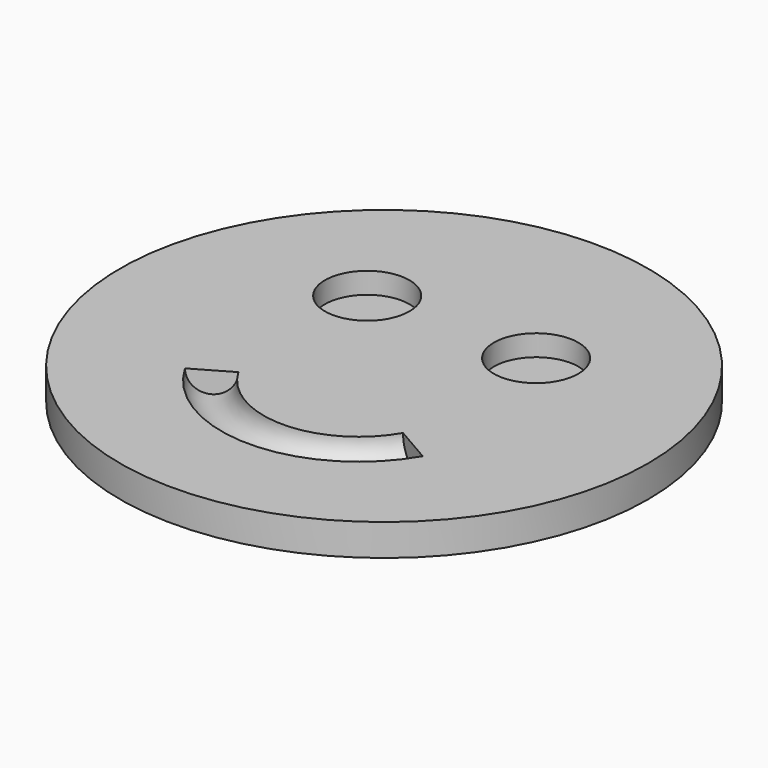
from build123d import *

# Parameters (mm, degrees)
CYLINDER001_R         = 4
CYLINDER001_DEPTH     = 2
CYLINDER002_R         = 4
CYLINDER002_DEPTH     = 2
TORUS_R               = 2
TORUS_ANGLE           = 120
TORUS_PLACEMENT_ANGLE = 210
CYLINDER_R            = 25
CYLINDER_DEPTH        = 3


with BuildPart() as cylinder001:
    # Cylinder001 → Cylinder001 (new body)
    with BuildSketch(Plane(origin=(8, 0, 1), x_dir=(1, 0, 0), z_dir=(0, 0, 1))):
        Circle(CYLINDER001_R)
    extrude(amount=CYLINDER001_DEPTH)


with BuildPart() as fusion:
    # Cylinder002 → Cylinder002 (new body)
    with BuildSketch(Plane(origin=(-8, 0, 1), x_dir=(1, 0, 0), z_dir=(0, 0, 1))):
        Circle(CYLINDER002_R)
    extrude(amount=CYLINDER002_DEPTH)

    # Fusion: union Cylinder001
    add(cylinder001.part)


with BuildPart() as fusion_1:
    # Fusion placement: moved
    add(fusion.part.moved(Location((0, 8, 0))))


with BuildPart() as fusion001:
    # Torus → Torus (revolve)
    with BuildSketch(Plane.XZ):
        with Locations((11, 0)):
            Circle(TORUS_R)
    revolve(axis=Axis((0, 0, 0), (0, 0, 1)), revolution_arc=TORUS_ANGLE)


with BuildPart() as fusion001_1:
    # Torus placement: moved
    add(fusion001.part.moved(Location((0, -3, 3))).rotate(Axis((0, -3, 3), (0, 0, 1)), TORUS_PLACEMENT_ANGLE))

    # Fusion001: union Fusion
    add(fusion_1.part)


with BuildPart() as cut:
    # Cylinder → Cylinder (new body)
    with BuildSketch(Plane.XY):
        Circle(CYLINDER_R)
    extrude(amount=CYLINDER_DEPTH)

    # Cut: cut Fusion001
    add(fusion001_1.part, mode=Mode.SUBTRACT)


solid = cut.part
